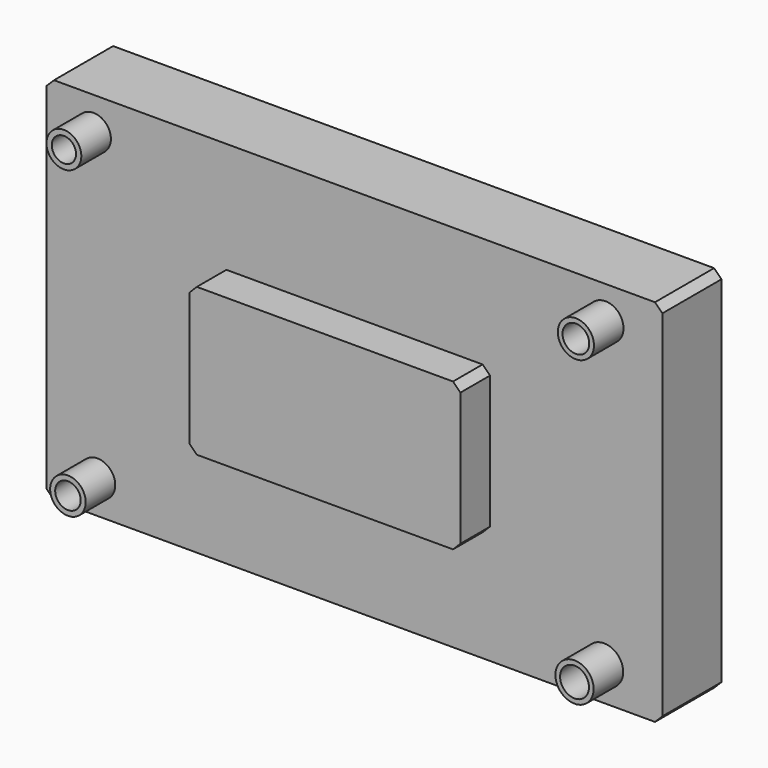
from build123d import *

# Parameters (mm, degrees)
F0_W      = 250
F0_H      = 150
F1_DEPTH  = 30
F2_SIZE   = 3
F3_SIZE   = 3
F4_SIZE   = 3
F5_SIZE   = 3
F6_W      = 110
F6_H      = 60
F7_DEPTH  = 15
F8_SIZE   = 3
F9_R      = 7.216075
F9_R_2    = 5.170271
F9_R_3    = 7.754468
F9_R_4    = 5.863946
F9_R_5    = 7.338113
F9_R_6    = 5.427253
F9_R_7    = 7.074755
F9_R_8    = 4.927232
F10_DEPTH = 15


with BuildPart() as f1:
    # F0 (on Front) → F1 (new body)
    with BuildSketch(Plane.XZ):
        with Locations((10.972098, 17.180756)):
            Rectangle(F0_W, F0_H)
    extrude(amount=F1_DEPTH)

    # F2
    f2_edges = [f1.edges().sort_by_distance(p)[0] for p in [
        (-114.027902, -15, -57.819244),
    ]]
    chamfer(f2_edges, length=F2_SIZE)

    # F3
    f3_edges = [f1.edges().sort_by_distance(p)[0] for p in [
        (135.972098, -15, -57.819244),
    ]]
    chamfer(f3_edges, length=F3_SIZE)

    # F4
    f4_edges = [f1.edges().sort_by_distance(p)[0] for p in [
        (135.972098, -15, 92.180756),
    ]]
    chamfer(f4_edges, length=F4_SIZE)

    # F5
    f5_edges = [f1.edges().sort_by_distance(p)[0] for p in [
        (-114.027902, -15, 92.180756),
    ]]
    chamfer(f5_edges, length=F5_SIZE)

    # F6 (on face) → F7 (join)
    with BuildSketch(Plane.XZ.offset(30)):
        with Locations((10.972098, 17.180756)):
            Rectangle(F6_W, F6_H)
    extrude(amount=F7_DEPTH)

    # F8
    f8_edges = [f1.edges().sort_by_distance(p)[0] for p in [
        (-44.027902, -37.5, -12.819244),
        (-44.027902, -37.5, 47.180756),
        (65.972098, -37.5, -12.819244),
        (65.972098, -37.5, 47.180756),
    ]]
    chamfer(f8_edges, length=F8_SIZE)

    # F9 (on face) → F10 (join)
    with BuildSketch(Plane.XZ.offset(30)):
        with Locations((-93.364298, -44.450238)):
            Circle(F9_R)
        with Locations((-93.364298, -44.450238)):
            Circle(F9_R_2, mode=Mode.SUBTRACT)
        with Locations((112.311885, -44.177815)):
            Circle(F9_R_3)
        with Locations((112.311885, -44.177815)):
            Circle(F9_R_4, mode=Mode.SUBTRACT)
        with Locations((112.856723, 78.683056)):
            Circle(F9_R_5)
        with Locations((112.856723, 78.683056)):
            Circle(F9_R_6, mode=Mode.SUBTRACT)
        with Locations((-94.998814, 78.683056)):
            Circle(F9_R_7)
        with Locations((-94.998814, 78.683056)):
            Circle(F9_R_8, mode=Mode.SUBTRACT)
    extrude(amount=F10_DEPTH)


solid = f1.part
